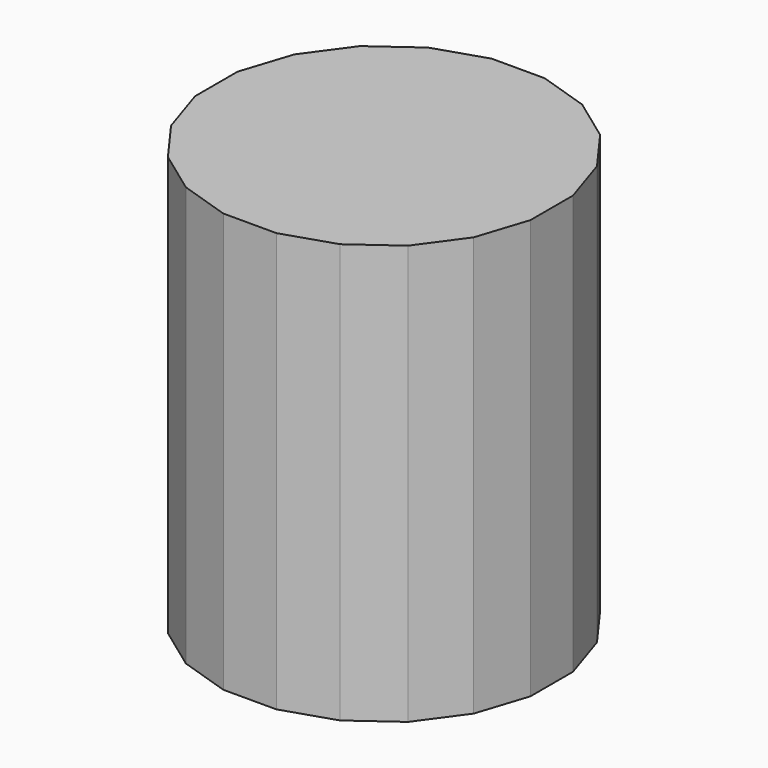
from build123d import *

# Parameters (mm, degrees)
F0_R     = 7.62
F1_DEPTH = 25.4
F2_DEPTH = 23.486745


with BuildPart() as f1:
    # F0 (on Top) → F1 (new body)
    with BuildSketch(Plane.XY):
        Polygon((1.609186, 10.16), (-1.609186, 10.16), (-4.670039, 9.165468), (-7.273757, 7.273757), (-9.165468, 4.670039), (-10.16, 1.609186), (-10.16, -1.609186), (-9.165468, -4.670039), (-7.273757, -7.273757), (-4.670039, -9.165468), (-1.609186, -10.16), (1.609186, -10.16), (4.670039, -9.165468), (7.273757, -7.273757), (9.165468, -4.670039), (10.16, -1.609186), (10.16, 1.609186), (9.165468, 4.670039), (7.273757, 7.273757), (4.670039, 9.165468), align=None)
        Circle(F0_R, mode=Mode.SUBTRACT)
        Polygon((1.609186, 10.16), (-1.609186, 10.16), (-4.670039, 9.165468), (-7.273757, 7.273757), (-9.165468, 4.670039), (-10.16, 1.609186), (-10.16, -1.609186), (-9.165468, -4.670039), (-7.273757, -7.273757), (-4.670039, -9.165468), (-1.609186, -10.16), (1.609186, -10.16), (4.670039, -9.165468), (7.273757, -7.273757), (9.165468, -4.670039), (10.16, -1.609186), (10.16, 1.609186), (9.165468, 4.670039), (7.273757, 7.273757), (4.670039, 9.165468), align=None)
        Circle(F0_R, mode=Mode.SUBTRACT)
        Circle(F0_R)
    extrude(amount=F1_DEPTH)

    # F0 (on Top) → F2 (cut)
    with BuildSketch(Plane.XY):
        Circle(F0_R)
    extrude(amount=F2_DEPTH, mode=Mode.SUBTRACT)


solid = f1.part
